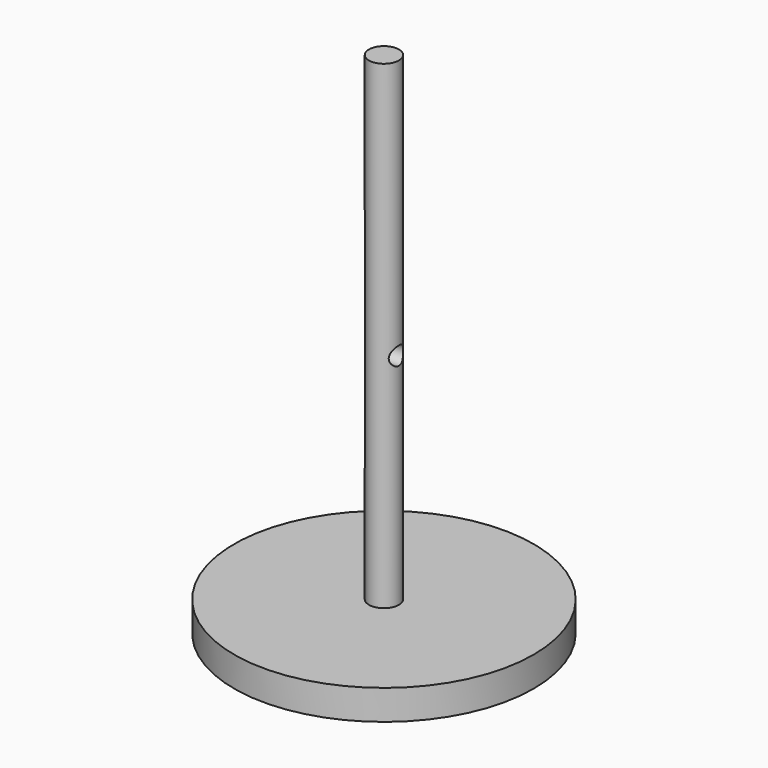
from build123d import *

# Parameters (mm, degrees)
F0_R     = 31.75
F1_DEPTH = 6.35
F2_R     = 3.175
F3_DEPTH = 101.6
F4_R     = 1.905
F5_DEPTH = 12.7


with BuildPart() as f1:
    # F0 (on Top) → F1 (new body)
    with BuildSketch(Plane.XY):
        Circle(F0_R)
    extrude(amount=F1_DEPTH)

    # F2 (on face) → F3 (join)
    with BuildSketch(Plane.XY.offset(6.35)):
        Circle(F2_R)
    extrude(amount=F3_DEPTH)

    # F4 (on Right) → F5 (cut, symmetric)
    with BuildSketch(Plane.YZ):
        with Locations((0, 52.869016)):
            Circle(F4_R)
    extrude(amount=F5_DEPTH, both=True, mode=Mode.SUBTRACT)


solid = f1.part
